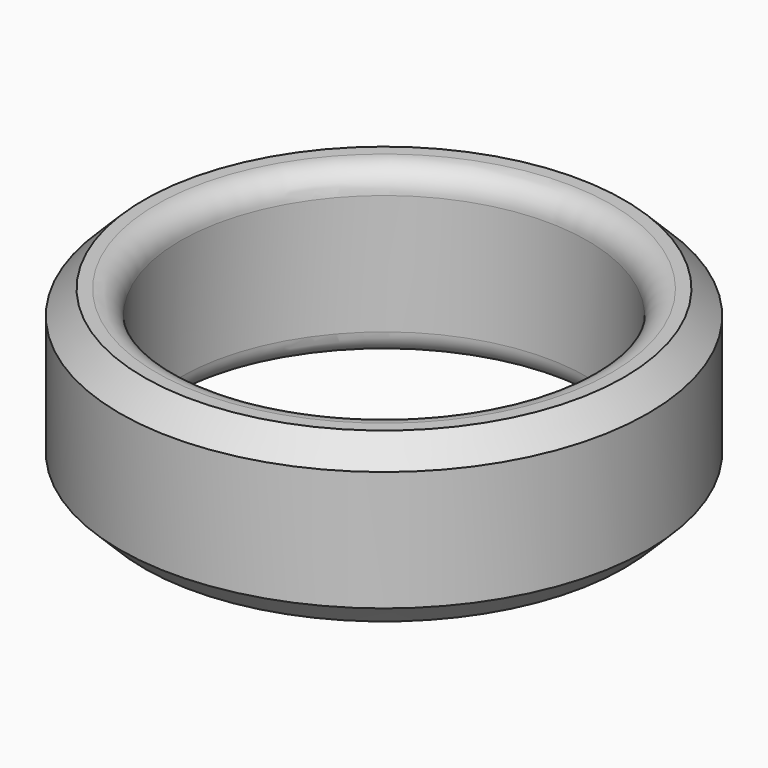
from build123d import *

# Parameters (mm, degrees)
F0_R     = 13.97
F0_R_2   = 10.7696
F1_DEPTH = 8.89
F2_R     = 1.27
F3_SIZE  = 1.27


with BuildPart() as f1:
    # F0 (on Top) → F1 (new body)
    with BuildSketch(Plane.XY):
        Circle(F0_R)
        Circle(F0_R_2, mode=Mode.SUBTRACT)
    extrude(amount=F1_DEPTH)

    # F2
    f2_edges = [f1.edges().sort_by_distance(p)[0] for p in [
        (-10.7696, 0, 8.89),
        (-10.7696, 0, 0),
    ]]
    fillet(f2_edges, radius=F2_R)

    # F3
    f3_edges = [f1.edges().sort_by_distance(p)[0] for p in [
        (13.97, 0, 4.445),
        (-13.97, 0, 0),
        (-13.97, 0, 8.89),
    ]]
    chamfer(f3_edges, length=F3_SIZE)


solid = f1.part
